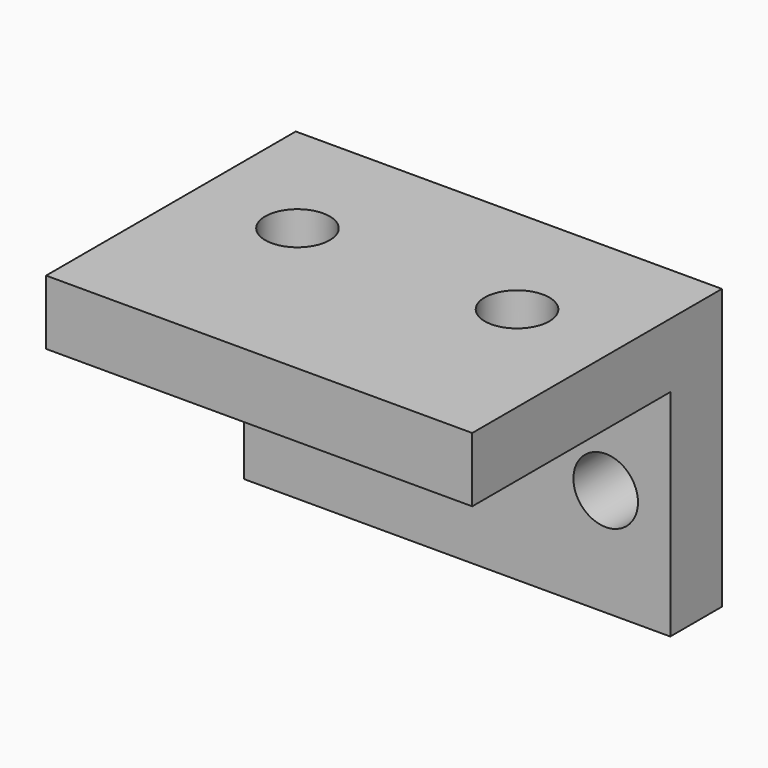
from build123d import *

# Parameters (mm, degrees)
SKETCH_W     = 19.8
SKETCH_H     = 14.5
SKETCH_R     = 1.5
PAD_DEPTH    = 3
SKETCH001_W  = 19.8
SKETCH001_H  = 3
PAD001_DEPTH = 10
SKETCH002_R  = 1.5
POCKET_DEPTH = 3.001


with BuildPart() as part:
    # Sketch → Pad (new body)
    with BuildSketch(Plane.XY):
        with Locations((9.9, 7.25)):
            Rectangle(SKETCH_W, SKETCH_H)
        with Locations((4.8, 8.6)):
            Circle(SKETCH_R, mode=Mode.SUBTRACT)
        with Locations((15, 8.6)):
            Circle(SKETCH_R, mode=Mode.SUBTRACT)
    extrude(amount=PAD_DEPTH)

    # Sketch001 → Pad001 (new body)
    with BuildSketch(Plane(origin=(0, 0, 0), x_dir=(1, 0, 0), z_dir=(0, 0, -1))):
        with Locations((9.9, -13)):
            Rectangle(SKETCH001_W, SKETCH001_H)
    extrude(amount=PAD001_DEPTH)

    # Sketch002 → Pocket (cut, through all)
    with BuildSketch(Plane.XZ.offset(-11.5)):
        with Locations((3, -5)):
            Circle(SKETCH002_R)
        with Locations((16.8, -5)):
            Circle(SKETCH002_R)
    extrude(amount=-POCKET_DEPTH, mode=Mode.SUBTRACT)


solid = part.part
